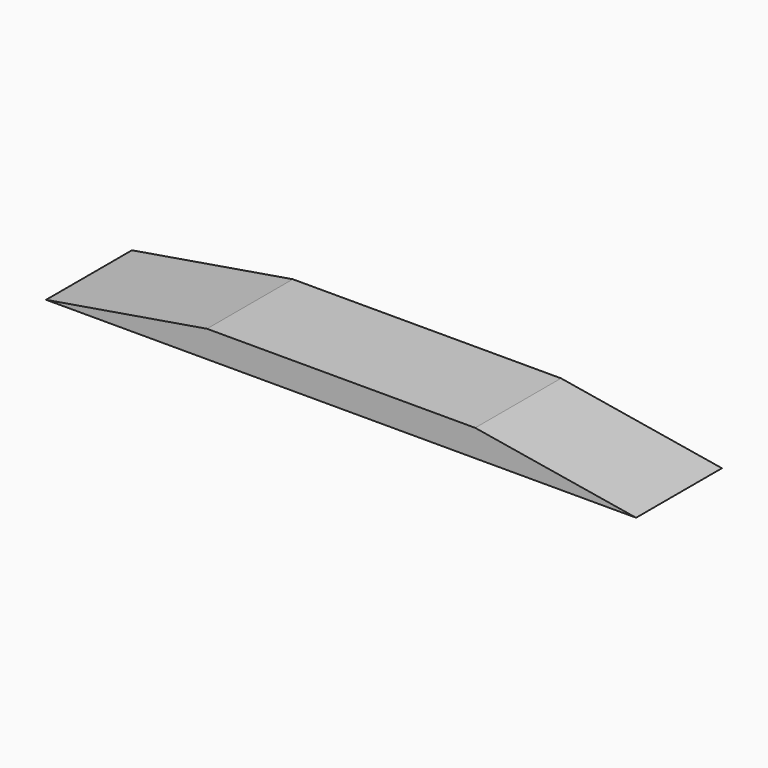
from build123d import *

# Parameters (mm, degrees)
F0_W     = 22
F0_H     = 4
F1_DEPTH = 1
F3_DEPTH = 25


with BuildPart() as f1:
    # F0 (on Top) → F1 (new body)
    with BuildSketch(Plane.XY):
        with Locations((11, 2)):
            Rectangle(F0_W, F0_H)
    extrude(amount=F1_DEPTH)

    # F2 (on face) → F3 (cut)
    with BuildSketch(Plane.XZ):
        Polygon((0, 1), (0, 0), (6, 1), align=None)
        Polygon((0, 1), (0, 0), (6, 1), align=None)
        Polygon((16, 1), (22, 0), (22, 1), align=None)
    extrude(amount=-F3_DEPTH, mode=Mode.SUBTRACT)


solid = f1.part
